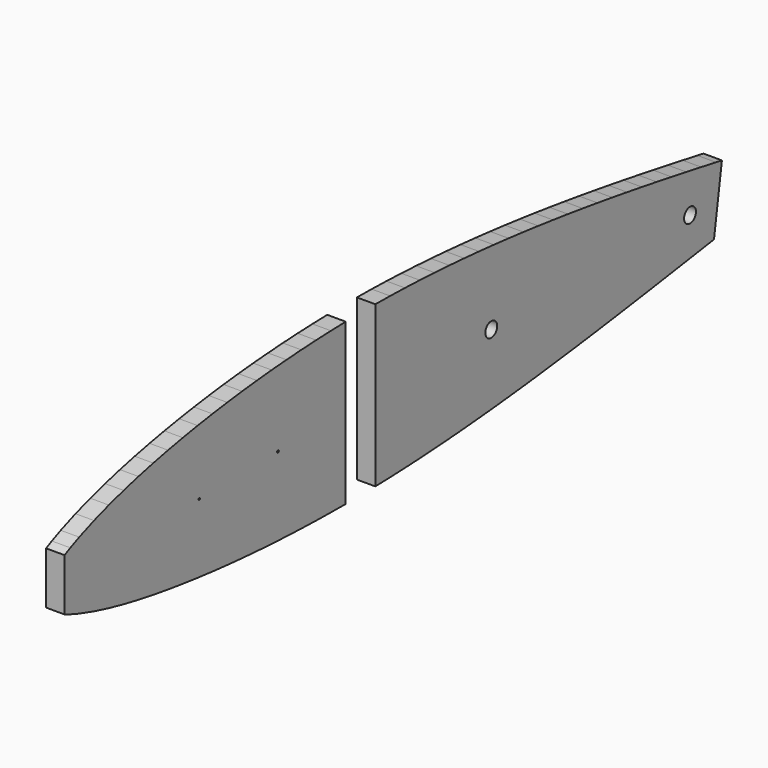
from build123d import *

# Parameters (mm, degrees)
F0_R     = 0.118131
F0_R_2   = 0.157508
F0_R_3   = 0.059065
F1_DEPTH = 2.5
F2_R     = 1
F3_DEPTH = 2.501


with BuildPart() as f1:
    # F0 (on Right) → F1 (new body)
    with BuildSketch(Plane.YZ):
        Polygon((-54.532161, 2.830809), (-55.5, 2.352854), (-55.5, -4.700424), (-54.532161, -5.08242), (-53.031896, -5.605049), (-50.531455, -6.352232), (-48.031014, -6.988103), (-45.530572, -7.540579), (-43.030131, -8.025684), (-40.52969, -8.45407), (-38.029248, -8.833918), (-35.528807, -9.172383), (-33.028366, -9.475878), (-30.527924, -9.746862), (-28.027483, -9.986058), (-25.527042, -10.194203), (-23.0266, -10.372321), (-20.526159, -10.521548), (-18.025718, -10.642951), (-15.525276, -10.737256), (-13.024835, -10.805046), (-10.524394, -10.846715), (-8.023952, -10.861415), (-8.023952, 10.823828), (-10.524394, 10.755197), (-13.024835, 10.653618), (-15.525276, 10.51967), (-18.025718, 10.35375), (-20.526159, 10.155076), (-23.0266, 9.922314), (-25.527042, 9.654129), (-28.027483, 9.34943), (-30.527924, 9.007203), (-33.028366, 8.626161), (-35.528807, 8.203429), (-38.029248, 7.735369), (-40.52969, 7.21755), (-43.030131, 6.641579), (-45.530572, 5.997213), (-48.031014, 5.272234), (-50.531455, 4.447069), (-53.031896, 3.491109), align=None)
        with Locations((-32.749595, -0.215495)):
            Circle(F0_R, mode=Mode.SUBTRACT)
        with Locations((-19.467313, 0.035113)):
            Circle(F0_R_2, mode=Mode.SUBTRACT)
        Polygon((54.167399, -4.676663), (55.5, 4.180714), (54.487081, 4.362485), (51.98664, 4.807271), (49.486199, 5.245501), (46.985757, 5.675946), (44.485316, 6.097298), (41.984875, 6.508123), (39.484433, 6.907189), (36.983992, 7.293421), (34.483551, 7.665764), (31.983109, 8.023287), (29.482668, 8.365121), (26.982226, 8.69037), (24.481785, 8.997909), (21.981344, 9.286516), (19.480902, 9.554974), (16.980461, 9.802049), (14.48002, 10.026501), (11.979578, 10.227105), (9.479137, 10.402721), (6.978696, 10.55224), (4.478254, 10.674497), (1.977813, 10.767919), (-0.522628, 10.830758), (-3.02307, 10.86139), (-3.02307, -10.804577), (-0.522628, -10.732729), (1.977813, -10.633898), (4.478254, -10.509743), (6.978696, -10.361622), (9.479137, -10.190766), (11.979578, -9.998399), (14.48002, -9.785734), (16.980461, -9.553981), (19.480902, -9.304363), (21.981344, -9.038223), (24.481785, -8.75696), (26.982226, -8.461946), (29.482668, -8.154324), (31.983109, -7.835137), (34.483551, -7.505433), (36.983992, -7.166263), (39.484433, -6.818683), (41.984875, -6.463799), (44.485316, -6.102992), (46.985757, -5.737679), (49.486199, -5.36926), (51.98664, -4.999252), align=None)
        with Locations((16.548928, -0.094404)):
            Circle(F0_R_3, mode=Mode.SUBTRACT)
        with Locations((50.112245, -0.140849)):
            Circle(F0_R_3, mode=Mode.SUBTRACT)
    extrude(amount=F1_DEPTH)

    # F2 (on face) → F3 (cut, through all)
    with BuildSketch(Plane.YZ.offset(2.5)):
        with Locations((16.548928, -0.094404)):
            Circle(F2_R)
        with Locations((50.112245, -0.140849)):
            Circle(F2_R)
    extrude(amount=-F3_DEPTH, mode=Mode.SUBTRACT)


solid = f1.part
